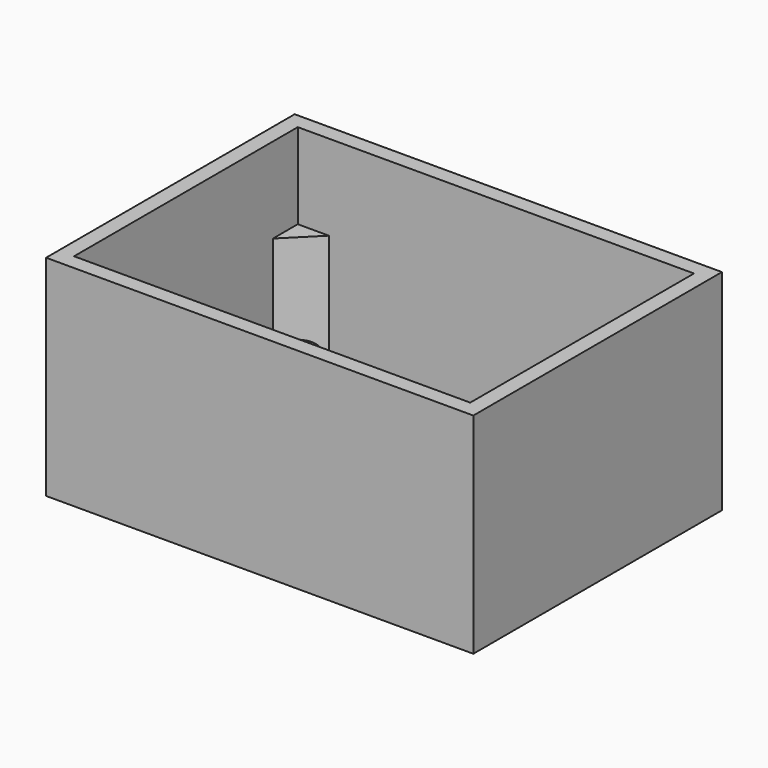
from build123d import *

# Parameters (mm, degrees)
F1_W     = 51
F1_H     = 36
F1_W_2   = 30.3
F1_H_2   = 14.3
F2_DEPTH = 2
F3_R     = 2.5
F4_DEPTH = 5
F5_DEPTH = 14
F0_W     = 55
F0_H     = 40
F0_W_2   = 51
F0_H_2   = 36
F6_DEPTH = 27
F7_SIZE  = 0.5


with BuildPart() as f2:
    # F1 (on face) → F2 (new body)
    with BuildSketch(Plane.XY):
        Rectangle(F1_W, F1_H)
        Rectangle(F1_W_2, F1_H_2, mode=Mode.SUBTRACT)
    extrude(amount=F2_DEPTH)

    # F3 (on face) → F4 (join)
    with BuildSketch(Plane.XY.offset(2)):
        with Locations((-19.15, 9.85)):
            Circle(F3_R)
        with Locations((18.85, 9.85)):
            Circle(F3_R)
        with Locations((18.85, -10.15)):
            Circle(F3_R)
        with Locations((-19.15, -10.15)):
            Circle(F3_R)
    extrude(amount=F4_DEPTH)

    # F3 (on face) → F5 (join)
    with BuildSketch(Plane.XY.offset(2)):
        Polygon((-21.5, 18), (-25.5, 18), (-25.5, 14), align=None)
        Polygon((-25.5, -14), (-25.5, -18), (-21.5, -18), align=None)
        Polygon((21.5, -18), (25.5, -18), (25.5, -14), align=None)
        Polygon((25.5, 14), (25.5, 18), (21.5, 18), align=None)
    extrude(amount=F5_DEPTH)

    # F0 (on Top) → F6 (join)
    with BuildSketch(Plane.XY):
        Rectangle(F0_W, F0_H)
        Rectangle(F0_W_2, F0_H_2, mode=Mode.SUBTRACT)
    extrude(amount=F6_DEPTH)

    # F7
    f7_edges = [f2.edges().sort_by_distance(p)[0] for p in [
        (0, 7.15, 2),
        (15.15, 0, 2),
        (0, -7.15, 2),
        (-15.15, 0, 2),
    ]]
    chamfer(f7_edges, length=F7_SIZE)


solid = f2.part
